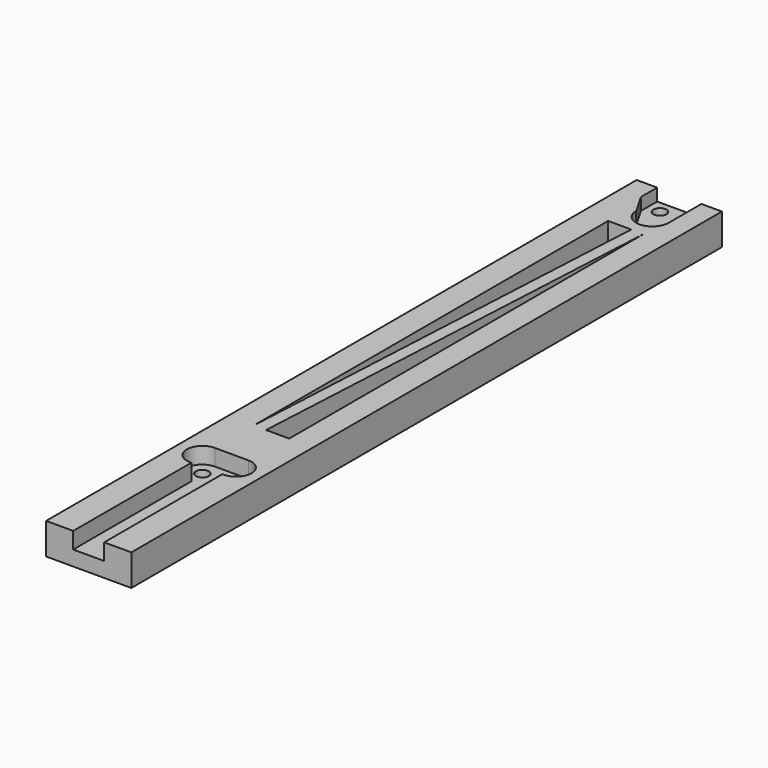
from build123d import *

# Parameters (mm, degrees)
PAD_DEPTH            = 3
PAD001_DEPTH         = 4.65
SKETCH002_R          = 1.58
POCKET_DEPTH         = 4.651
POCKET001_DEPTH      = 4.651
POCKET001_DEPTH_BACK = -3.001
POCKET002_DEPTH      = 4
SKETCH005_R          = 1.58
POCKET003_DEPTH      = 4.651
POCKET003_DEPTH_BACK = -3.001


with BuildPart() as part:
    # Sketch → Pad (new body)
    with BuildSketch(Plane.XY):
        with BuildLine():
            ThreePointArc((-3.95, 3.95), (0, 0), (3.95, 3.95))
            Line((3.95, 13.95), (3.95, 3.95))
            Line((3.95, 13.95), (8.95, 13.95))
            Line((8.95, 13.95), (8.95, 0))
            Line((8.95, 0), (8.95, -166.05))
            Line((8.95, -166.05), (-11.8411, -166.05))
            Line((-11.8411, -166.05), (-11.8411, 0))
            Line((-11.8411, 13.95), (-11.8411, 0))
            Line((-6.8411, 13.95), (-11.8411, 13.95))
            Line((-6.8411, 13.95), (-6.8411, 9.04))
            Line((-6.8411, 9.04), (-3.95, 3.95))
        make_face()
    extrude(amount=PAD_DEPTH)

    # Sketch001 → Pad001 (join)
    with BuildSketch(Plane.XY):
        Polygon((-11.8411, 0), (-11.8411, 13.95), (0, 13.95), (8.95, 13.95), (8.95, 0), (8.95, -166.05), (-11.8411, -166.05), align=None)
    extrude(amount=-PAD001_DEPTH)

    # Sketch002 → Pocket (cut, through all)
    with BuildSketch(Plane(origin=(0, 0.2, 0), x_dir=(1, 0, 0), z_dir=(0, 0, 1))):
        with Locations((0, 3.75)):
            Circle(SKETCH002_R)
        with Locations((-3.75, 10.75)):
            Circle(SKETCH002_R)
    extrude(amount=-POCKET_DEPTH, mode=Mode.SUBTRACT)

    # Sketch003 → Pocket001 (cut, two sides)
    with BuildSketch(Plane.XY) as pocket001_sk:
        Polygon((0.11, -2.63), (-5.54, -2.63), (-5.54, -110.63), align=None)
        Polygon((-2.54, -110.63), (3.11, -110.63), (3.11, -2.63), align=None)
    extrude(amount=-POCKET001_DEPTH, mode=Mode.SUBTRACT)
    extrude(pocket001_sk.sketch, amount=-POCKET001_DEPTH_BACK, mode=Mode.SUBTRACT)

    # Sketch004 → Pocket002 (cut)
    with BuildSketch(Plane.XY.offset(3)):
        with BuildLine():
            Line((-5.22555, -130.05), (-5.22555, -166.05))
            Line((-5.22555, -166.05), (2.33445, -166.05))
            Line((2.33445, -166.05), (2.33445, -130.05))
            Line((2.33445, -130.05), (2.67, -130.05))
            ThreePointArc((2.67, -130.05), (6.45, -126.27), (2.67, -122.49))
            Line((-5.5611, -122.49), (2.67, -122.49))
            ThreePointArc((-5.5611, -122.49), (-9.3411, -126.27), (-5.5611, -130.05))
            Line((-5.22555, -130.05), (-5.5611, -130.05))
        make_face()
    extrude(amount=-POCKET002_DEPTH, mode=Mode.SUBTRACT)

    # Sketch005 → Pocket003 (cut, two sides)
    with BuildSketch(Plane.XY) as pocket003_sk:
        with Locations((-5.5611, -126.27)):
            Circle(SKETCH005_R)
        with Locations((2.67, -126.27)):
            Circle(SKETCH005_R)
    extrude(amount=-POCKET003_DEPTH, mode=Mode.SUBTRACT)
    extrude(pocket003_sk.sketch, amount=-POCKET003_DEPTH_BACK, mode=Mode.SUBTRACT)


solid = part.part
